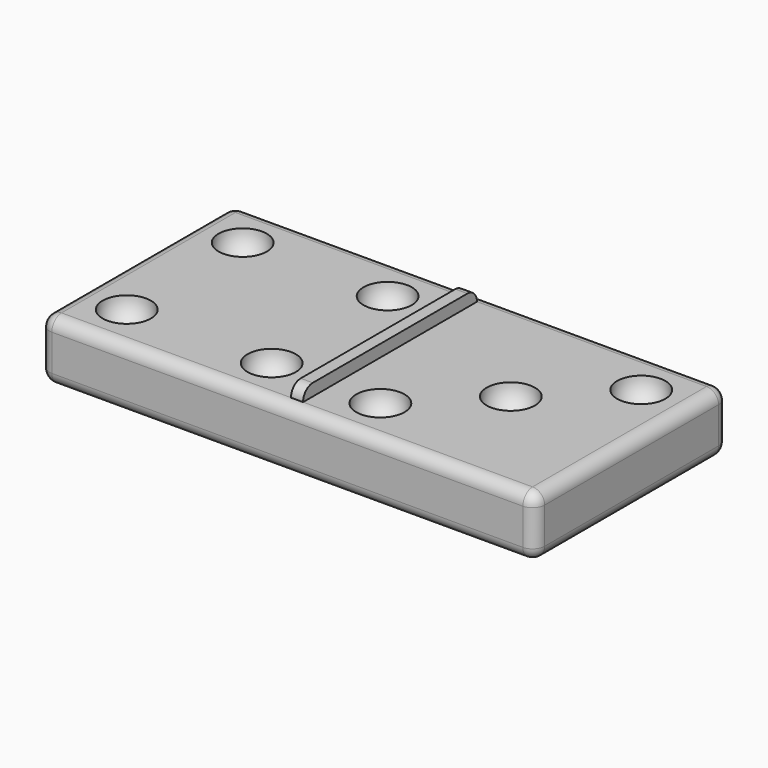
from build123d import *

# Parameters (mm, degrees)
BOX_W        = 41
BOX_H        = 20
BOX_DEPTH    = 5
FILLET_R     = 1
BOX001_W     = 1
BOX001_H     = 18
BOX001_DEPTH = 6
FILLET001_R  = 1


with BuildPart() as esfera005:
    # Sphere005 → Sphere005 (revolve)
    with BuildSketch(Plane(origin=(37, 16, 5), x_dir=(1, 0, 0), z_dir=(0, -1, 0))):
        with BuildLine():
            ThreePointArc((0, -2), (2, 0), (0, 2))
            Line((0, 2), (0, -2))
        make_face()
    revolve(axis=Axis((37, 16, 5), (0, 0, 1)))


with BuildPart() as esfera003:
    # Sphere003 → Sphere003 (revolve)
    with BuildSketch(Plane(origin=(16, 16, 5), x_dir=(1, 0, 0), z_dir=(0, -1, 0))):
        with BuildLine():
            ThreePointArc((0, -2), (2, 0), (0, 2))
            Line((0, 2), (0, -2))
        make_face()
    revolve(axis=Axis((16, 16, 5), (0, 0, 1)))


with BuildPart() as esfera004:
    # Sphere004 → Sphere004 (revolve)
    with BuildSketch(Plane(origin=(25, 4, 5), x_dir=(1, 0, 0), z_dir=(0, -1, 0))):
        with BuildLine():
            ThreePointArc((0, -2), (2, 0), (0, 2))
            Line((0, 2), (0, -2))
        make_face()
    revolve(axis=Axis((25, 4, 5), (0, 0, 1)))


with BuildPart() as esfera001:
    # Sphere001 → Sphere001 (revolve)
    with BuildSketch(Plane(origin=(4, 16, 5), x_dir=(1, 0, 0), z_dir=(0, -1, 0))):
        with BuildLine():
            ThreePointArc((0, -2), (2, 0), (0, 2))
            Line((0, 2), (0, -2))
        make_face()
    revolve(axis=Axis((4, 16, 5), (0, 0, 1)))


with BuildPart() as esfera002:
    # Sphere002 → Sphere002 (revolve)
    with BuildSketch(Plane(origin=(16, 4, 5), x_dir=(1, 0, 0), z_dir=(0, -1, 0))):
        with BuildLine():
            ThreePointArc((0, -2), (2, 0), (0, 2))
            Line((0, 2), (0, -2))
        make_face()
    revolve(axis=Axis((16, 4, 5), (0, 0, 1)))


with BuildPart() as esfera006:
    # Sphere006 → Sphere006 (revolve)
    with BuildSketch(Plane(origin=(31, 10, 5), x_dir=(1, 0, 0), z_dir=(0, -1, 0))):
        with BuildLine():
            ThreePointArc((0, -2), (2, 0), (0, 2))
            Line((0, 2), (0, -2))
        make_face()
    revolve(axis=Axis((31, 10, 5), (0, 0, 1)))


with BuildPart() as fusion:
    # Sphere → Sphere (revolve)
    with BuildSketch(Plane(origin=(4, 4, 5), x_dir=(1, 0, 0), z_dir=(0, -1, 0))):
        with BuildLine():
            ThreePointArc((0, -2), (2, 0), (0, 2))
            Line((0, 2), (0, -2))
        make_face()
    revolve(axis=Axis((4, 4, 5), (0, 0, 1)))

    # Fusion: union Esfera005, Esfera003, Esfera004, Esfera001, Esfera002, Esfera006
    add(esfera005.part)
    add(esfera003.part)
    add(esfera004.part)
    add(esfera001.part)
    add(esfera002.part)
    add(esfera006.part)


with BuildPart() as cut:
    # Box → Box (new body)
    with BuildSketch(Plane.XY):
        with Locations((20.5, 10)):
            Rectangle(BOX_W, BOX_H)
    extrude(amount=BOX_DEPTH)

    # Fillet
    fillet_edges = [cut.edges().sort_by_distance(p)[0] for p in [
        (0, 0, 2.5),
        (0, 10, 5),
        (0, 20, 2.5),
        (0, 10, 0),
        (41, 0, 2.5),
        (41, 10, 5),
        (41, 20, 2.5),
        (41, 10, 0),
        (20.5, 0, 0),
        (20.5, 0, 5),
        (20.5, 20, 0),
        (20.5, 20, 5),
    ]]
    fillet(fillet_edges, radius=FILLET_R)

    # Cut: cut Fusion
    add(fusion.part, mode=Mode.SUBTRACT)


with BuildPart() as fillet001:
    # Box001 → Box001 (new body)
    with BuildSketch(Plane(origin=(20, 1, 0), x_dir=(1, 0, 0), z_dir=(0, 0, 1))):
        with Locations((0.5, 9)):
            Rectangle(BOX001_W, BOX001_H)
    extrude(amount=BOX001_DEPTH)

    # Fillet001
    fillet001_edges = [fillet001.edges().sort_by_distance(p)[0] for p in [
        (20.5, 1, 6),
        (20.5, 19, 6),
    ]]
    fillet(fillet001_edges, radius=FILLET001_R)


solid = Compound([cut.part, fillet001.part])
